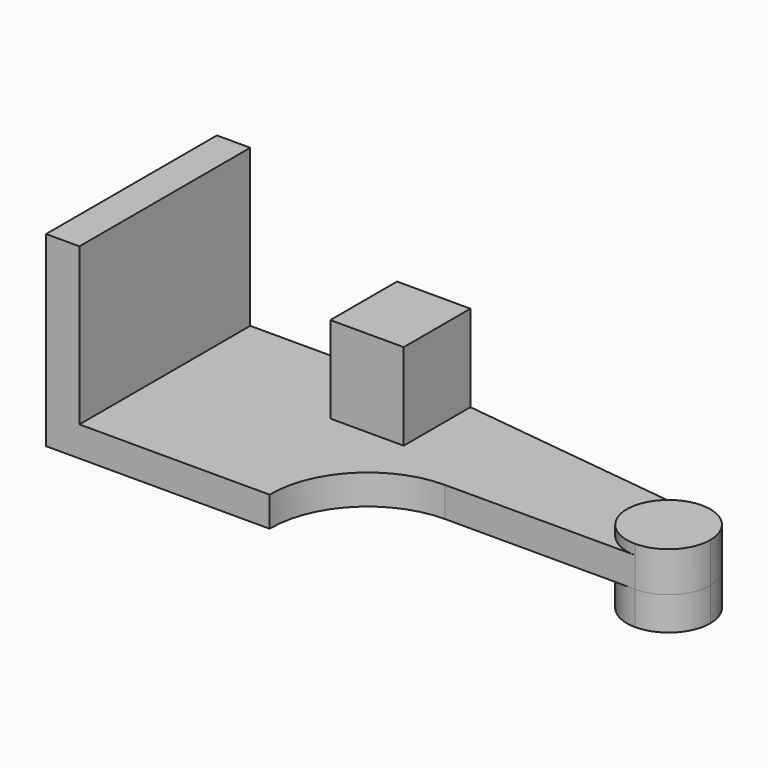
from build123d import *

# Parameters (mm, degrees)
F1_DEPTH      = 9
F0_W          = 10
F0_H          = 64
F2_DEPTH      = 56
F0_W_2        = 22
F0_H_2        = 25
F3_DEPTH      = 35
F4_DEPTH      = 12
F4_DEPTH_BACK = 10
F5_W          = 14
F5_H          = 25
F6_DEPTH      = 16


with BuildPart() as f1:
    # F0 (on Top) → F1 (new body)
    with BuildSketch(Plane.XY):
        with BuildLine():
            Line((-143, 22), (-143, -42))
            Line((-143, -42), (-86, -42))
            ThreePointArc((-86, -42), (-77.6864285452, -21.1714486497), (-57.0043106652, -12.5))
            Line((-57.0043106652, -12.5), (0, -12.5))
            ThreePointArc((0, -12.5), (-12.4769155686, 0.7593272639), (1.5158499456, 12.407747537))
            Line((1.5158499456, 12.407747537), (-77, 22))
            Line((-77, 22), (-77, -3))
            Line((-77, -3), (-99, -3))
            Line((-99, -3), (-99, 22))
            Line((-99, 22), (-143, 22))
        make_face()
    extrude(amount=F1_DEPTH)

    # F0 (on Top) → F2 (join)
    with BuildSketch(Plane.XY):
        with Locations((-148, -10)):
            Rectangle(F0_W, F0_H)
    extrude(amount=F2_DEPTH)

    # F0 (on Top) → F3 (join)
    with BuildSketch(Plane.XY):
        with Locations((-88, 9.5)):
            Rectangle(F0_W_2, F0_H_2)
    extrude(amount=F3_DEPTH)

    # F0 (on Top) → F4 (join, two sides)
    with BuildSketch(Plane.XY) as f4_sk:
        with BuildLine():
            ThreePointArc((1.5158499456, 12.407747537), (-12.4769155686, 0.7593272639), (0, -12.5))
            ThreePointArc((0, -12.5), (8.8388347648, -8.8388347648), (12.5, 0))
            ThreePointArc((12.5, 0), (9.3594370643, 8.2855861494), (1.5158499456, 12.407747537))
        make_face()
    extrude(amount=F4_DEPTH)
    extrude(f4_sk.sketch, amount=-F4_DEPTH_BACK)

    # F5 (on face) → F6 (join)
    with BuildSketch(Plane.XY.offset(35)):
        with Locations((-84, 9.5)):
            Rectangle(F5_W, F5_H)
    extrude(amount=-F6_DEPTH)


solid = f1.part
